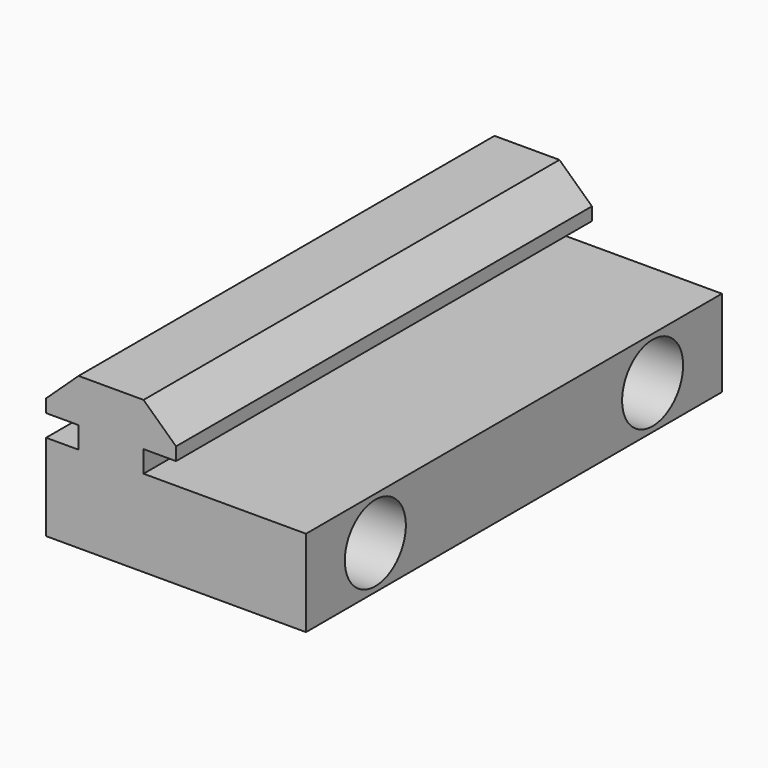
from build123d import *

# Parameters (mm, degrees)
F1_DEPTH = 60
F3_D     = 8.8
F3_DEPTH = 10
F3_TIP   = 2.6437867237


with BuildPart() as f1:
    # F0 (on Front) → F1 (new body)
    with BuildSketch(Plane.XZ):
        Polygon((-3.7746716016, 2.5), (-3.7746716016, 0), (3.7253283984, 0), (3.7253283984, 2.5), (7.4753283984, 2.5), (7.4753283984, 4), (3.7253283984, 7.5), (-3.7746716016, 7.5), (-7.5246716016, 4), (-7.5246716016, 2.5), align=None)
        Polygon((3.7253283984, 0), (-3.7746716016, 0), (-7.5246716016, 0), (-7.5246716016, -10), (22.4753283984, -10), (22.4753283984, 0), align=None)
    extrude(amount=F1_DEPTH)

    # F3
    with Locations(Plane.YZ.offset(22.4753283984)):
        with Locations((-50, -5), (-10, -5)):
            Hole(F3_D / 2, depth=F3_DEPTH)
            with Locations((0, 0, -(F3_DEPTH + F3_TIP / 2))):  # 118° drill point
                Cone(0, F3_D / 2, F3_TIP, mode=Mode.SUBTRACT)


solid = f1.part
